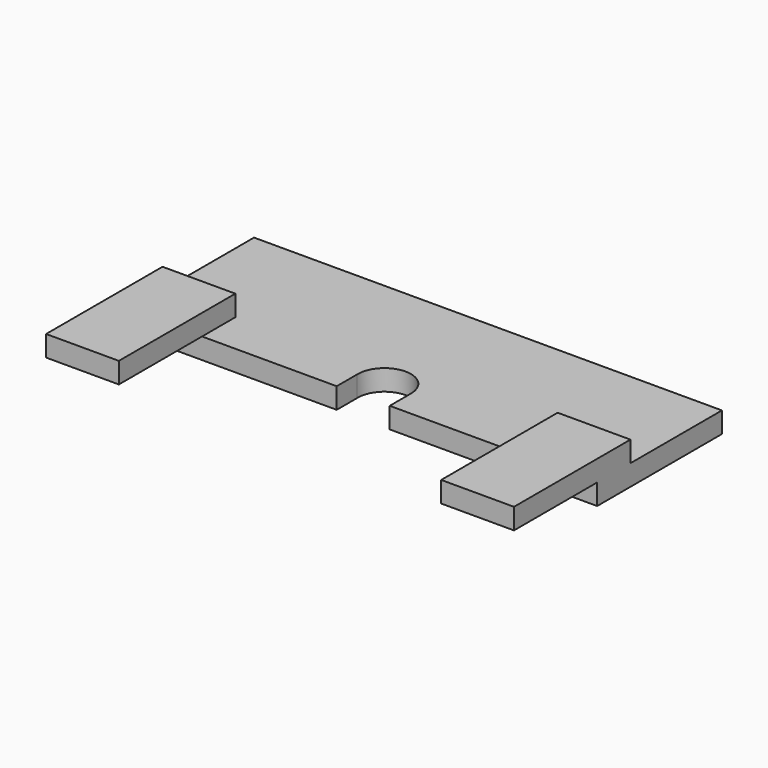
from build123d import *

# Parameters (mm, degrees)
F1_DEPTH = 2
F2_W     = 7
F2_H     = 10
F2_H_2   = 4
F3_DEPTH = 2


with BuildPart() as f1:
    # F0 (on Top) → F1 (new body)
    with BuildSketch(Plane.XY):
        with BuildLine():
            Line((2.549947, -7.5), (22.5, -7.5))
            Line((22.5, -7.5), (22.5, 7.5))
            Line((22.5, 7.5), (-22.5, 7.5))
            Line((-22.5, 7.5), (-22.5, -7.5))
            Line((-22.5, -7.5), (-2.548188, -7.5))
            Line((-2.548188, -7.5), (-2.548188, -5.046103))
            ThreePointArc((-2.548188, -5.046103), (-0.039812, -2.400311), (2.549947, -4.966498))
            Line((2.549947, -4.966498), (2.549947, -7.5))
        make_face()
    extrude(amount=F1_DEPTH)

    # F2 (on face) → F3 (join)
    with BuildSketch(Plane.XY.offset(2)):
        with Locations((-19, -12.5)):
            Rectangle(F2_W, F2_H)
        with Locations((-19, -5.5)):
            Rectangle(F2_W, F2_H_2)
        with Locations((19, -12.5)):
            Rectangle(F2_W, F2_H)
        with Locations((19, -5.5)):
            Rectangle(F2_W, F2_H_2)
    extrude(amount=F3_DEPTH)


solid = f1.part
